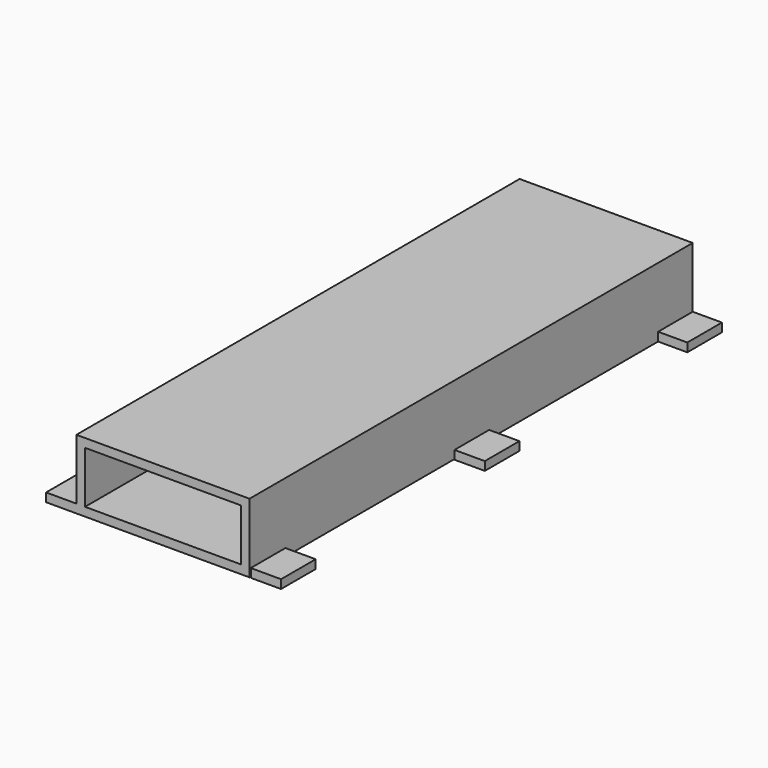
from build123d import *

# Parameters (mm, degrees)
F0_W     = 254
F0_H     = 101.6
F0_W_2   = 228.6
F0_H_2   = 76.2
F1_DEPTH = 812.8
F2_W     = 44.45
F2_H     = 63.5
F3_DEPTH = 12.7


with BuildPart() as f1:
    # F0 (on Front) → F1 (new body)
    with BuildSketch(Plane.XZ):
        with Locations((127, 50.8)):
            Rectangle(F0_W, F0_H)
        with Locations((127, 50.8)):
            Rectangle(F0_W_2, F0_H_2, mode=Mode.SUBTRACT)
    extrude(amount=-F1_DEPTH)

    # F2 (on Top) → F3 (join)
    with BuildSketch(Plane.XY):
        with Locations((-22.225, 782.486833)):
            Rectangle(F2_W, F2_H)
        with Locations((274.607548, 781.05)):
            Rectangle(F2_W, F2_H)
        with Locations((277.239241, 406.4)):
            Rectangle(F2_W, F2_H)
        with Locations((-22.225, 406.4)):
            Rectangle(F2_W, F2_H)
        with Locations((-22.225, 31.75)):
            Rectangle(F2_W, F2_H)
        with Locations((278.048612, 31.75)):
            Rectangle(F2_W, F2_H)
    extrude(amount=F3_DEPTH)


solid = f1.part
